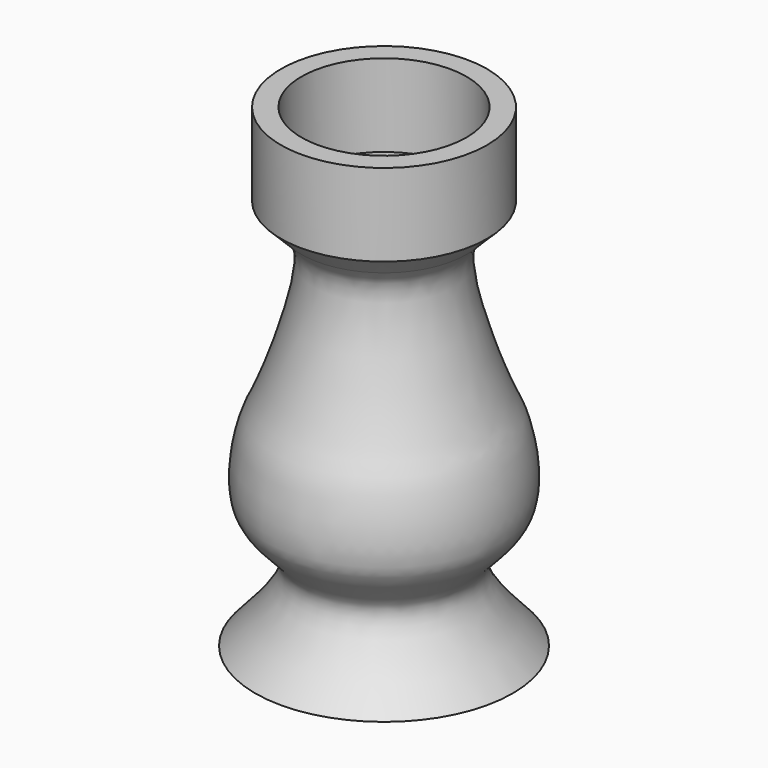
from build123d import *


with BuildPart() as f1:
    # F0 (on Front) → F1 (revolve)
    with BuildSketch(Plane.XZ):
        with BuildLine():
            Line((0, 38), (0, 2))
            Line((0, 2), (12.5, 2))
            add(Edge.make_bspline(
                [(8, 38), (7.3492675549, 37.3299901625), (5.5989867008, 35.4316393222), (9.9821933858, 22.9235814091), (11.0282922174, 21.6231093494), (12.9546336943, 13.0068640425), (5.6394876227, 9.5314772457), (10.0605317603, 4.6780506365), (12.5, 2)],
                knots=[0.1019456419, 0.1019456419, 0.1019456419, 0.1019456419, 0.2080343351, 0.4201345979, 0.5144198361, 0.6789994127, 0.8228765166, 1, 1, 1, 1], degree=3))
            Line((8, 38), (0, 38))
        make_face()
        with BuildLine():
            Line((0, 40), (0, 38))
            Line((0, 38), (8, 38))
            add(Edge.make_bspline(
                [(10, 40), (9.3126597885, 39.3219220675), (8.6253195771, 38.643844135), (8, 38)],
                knots=[0, 0, 0, 0, 0.1019456419, 0.1019456419, 0.1019456419, 0.1019456419], degree=3))
            Line((10, 40), (10, 48))
            Line((10, 48), (8, 48))
            Line((8, 48), (8, 42.256437242))
            Line((8, 42.256437242), (8, 40))
            Line((8, 40), (0, 40))
        make_face()
    revolve(axis=Axis((0, 0, 44), (0, 0, -1)))


solid = f1.part
